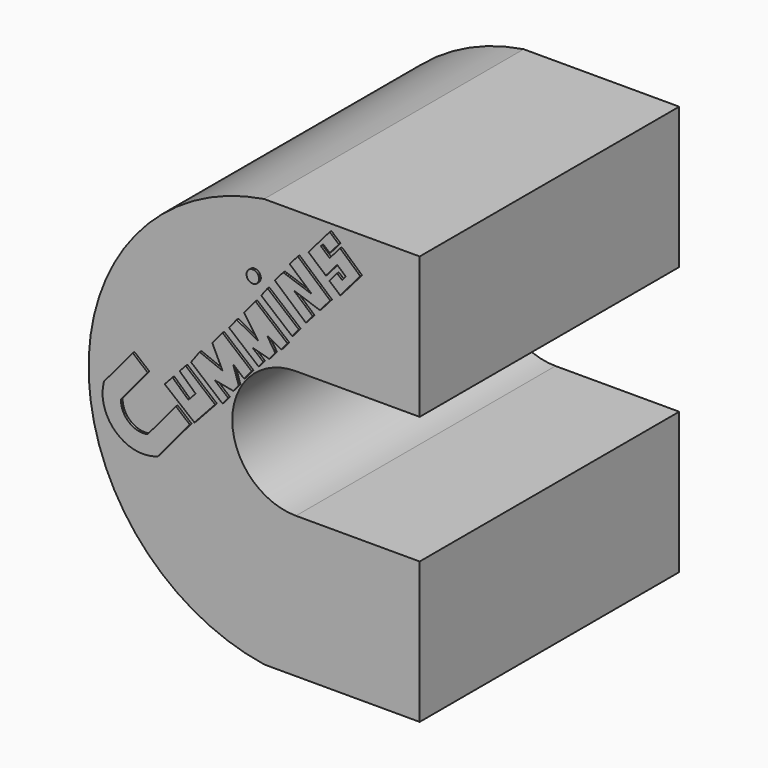
from build123d import *

# Parameters (mm, degrees)
F1_R     = 0.736194
F2_DEPTH = 38.354
F3_DEPTH = 38.1


with BuildPart() as f2:
    # F1 (on Front) → F2 (new body)
    with BuildSketch(Plane.XZ):
        with BuildLine():
            Line((-33.495814, 27.36377), (-36.872063, 23.312273))
            ThreePointArc((-36.872063, 23.312273), (-35.463617, 18.521035), (-30.548924, 17.634769))
            Line((-30.548924, 17.634769), (-26.798948, 22.134738))
            Line((-26.798948, 22.134738), (-28.430059, 23.493998))
            Line((-28.430059, 23.493998), (-31.744041, 19.517221))
            ThreePointArc((-31.744041, 19.517221), (-33.951605, 20.061516), (-34.88506, 22.134738))
            Line((-34.88506, 22.134738), (-31.744041, 25.903959))
            Line((-31.744041, 25.903959), (-33.495814, 27.36377))
        make_face()
        Polygon((-28.827148, 26.352072), (-29.74334, 25.356213), (-26.25356, 22.521653), (-23.817614, 25.169415), (-27.278091, 28.053147), (-27.991037, 27.278208), (-26.113228, 25.550621), (-26.95797, 24.632426), align=None)
        Polygon((-25.640393, 30.01684), (-26.648639, 28.632956), (-22.949839, 25.550621), (-22.281963, 26.352072), (-23.883928, 27.687043), (-21.696785, 27.278208), (-21.051002, 28.053147), (-21.696785, 30.01684), (-20.415554, 28.949146), (-19.525808, 30.01684), (-22.949839, 32.8702), (-24.153036, 31.426364), (-22.949839, 28.949146), align=None)
        Polygon((-21.298442, 34.757137), (-22.1748, 33.64177), (-18.719002, 30.761938), (-18.165313, 31.426364), (-19.438708, 32.487527), (-17.474338, 31.956945), (-16.760014, 32.814134), (-17.713346, 34.279123), (-16.040299, 33.402763), (-15.328503, 34.256919), (-19.078162, 37.381636), (-20.415554, 35.776767), (-18.74904, 33.402763), align=None)
        Polygon((-17.660531, 39.186184), (-18.404817, 38.204513), (-14.772538, 35.177613), (-13.984713, 36.123002), align=None)
        with Locations((-19.393457, 39.841384)):
            Circle(F1_R)
        Polygon((-15.826364, 41.433961), (-16.817451, 40.289652), (-13.172523, 37.097198), (-12.349696, 38.036647), (-14.554318, 39.967592), (-11.516945, 38.928492), (-10.299021, 40.319036), (-14.103899, 43.651585), (-15.065886, 42.553254), (-12.481457, 40.289652), align=None)
        Polygon((-9.487918, 43.401434), (-10.406311, 42.336869), (-9.134507, 41.239691), (-6.769358, 43.981276), (-9.139585, 46.108788), (-10.364274, 44.689178), (-11.40556, 45.587489), (-11.144366, 45.890255), (-10.364274, 45.217274), (-9.288745, 46.463985), (-10.364274, 47.391838), (-12.86014, 44.498731), (-10.815193, 42.734569), (-9.487918, 44.273093), (-8.477525, 43.401434), (-8.908644, 42.901698), align=None)
    extrude(amount=F2_DEPTH)


with BuildPart() as f3:
    # F0 (on Front) → F3 (new body)
    with BuildSketch(Plane.XZ):
        with BuildLine():
            Line((0, 31.538878), (0, 48.126314))
            Line((0, 48.126314), (-18.264385, 48.126314))
            ThreePointArc((-18.264385, 48.126314), (-38.885019, 24.063157), (-18.264385, 0))
            Line((-18.264385, 0), (0, 0))
            Line((0, 0), (0, 16.587436))
            Line((0, 16.587436), (-14.534506, 16.587436))
            ThreePointArc((-14.534506, 16.587436), (-22.010226, 24.063157), (-14.534506, 31.538878))
            Line((-14.534506, 31.538878), (0, 31.538878))
        make_face()
    extrude(amount=F3_DEPTH)


solid = Compound([f2.part, f3.part])
